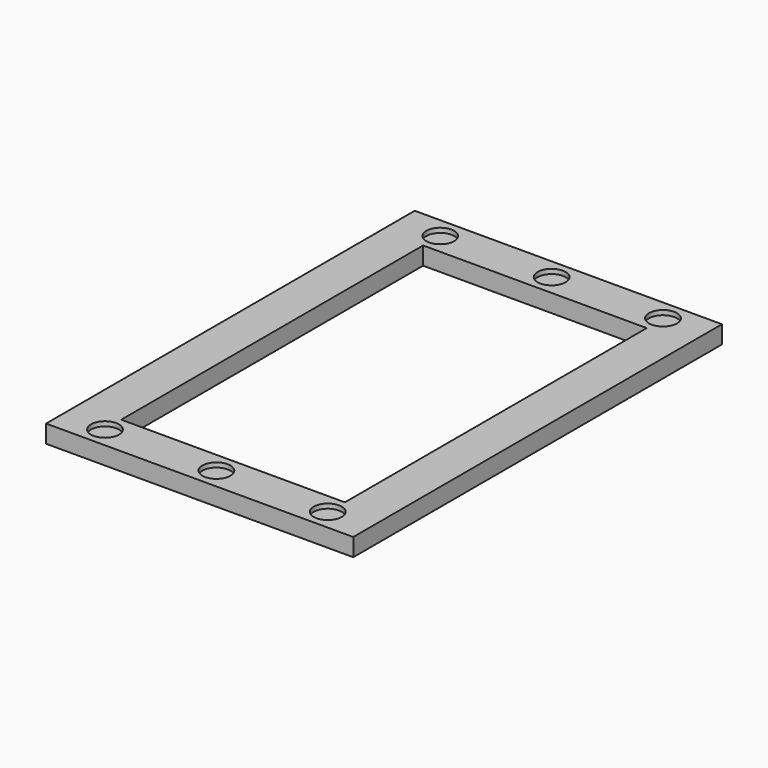
from build123d import *

# Parameters (mm, degrees)
SKETCH_W               = 110.32
SKETCH_H               = 165.5
PAD_DEPTH              = 6.4
SKETCH001_W            = 80.32
SKETCH001_H            = 135.5
POCKET_DEPTH           = 6.401
SKETCH002_R            = 5.025
POCKET001_DEPTH        = 1.645
LINEARPATTERN_COUNT    = 2
LINEARPATTERN_PITCH    = 40
LINEARPATTERN001_COUNT = 2
LINEARPATTERN001_PITCH = 40


with BuildPart() as part:
    # Sketch → Pad (new body)
    with BuildSketch(Plane.XY):
        Rectangle(SKETCH_W, SKETCH_H)
    extrude(amount=PAD_DEPTH)

    # Sketch001 → Pocket (cut, through all)
    with BuildSketch(Plane.XY.offset(6.4)):
        Rectangle(SKETCH001_W, SKETCH001_H)
    extrude(amount=-POCKET_DEPTH, mode=Mode.SUBTRACT)

    # Sketch002 → Pocket001 (cut)
    with BuildSketch(Plane.XY.offset(6.4)):
        with Locations((0, 75.25)):
            Circle(SKETCH002_R)
        with Locations((0, -75.25)):
            Circle(SKETCH002_R)
    pocket001 = extrude(amount=-POCKET001_DEPTH, mode=Mode.SUBTRACT)

    # LinearPattern: Pocket001 ×2
    with Locations(*[(i * LINEARPATTERN_PITCH, 0, 0) for i in range(1, LINEARPATTERN_COUNT)]):
        add(pocket001, mode=Mode.SUBTRACT)

    # LinearPattern001: Pocket001 ×2
    with Locations(*[(-i * LINEARPATTERN001_PITCH, 0, 0) for i in range(1, LINEARPATTERN001_COUNT)]):
        add(pocket001, mode=Mode.SUBTRACT)


solid = part.part
